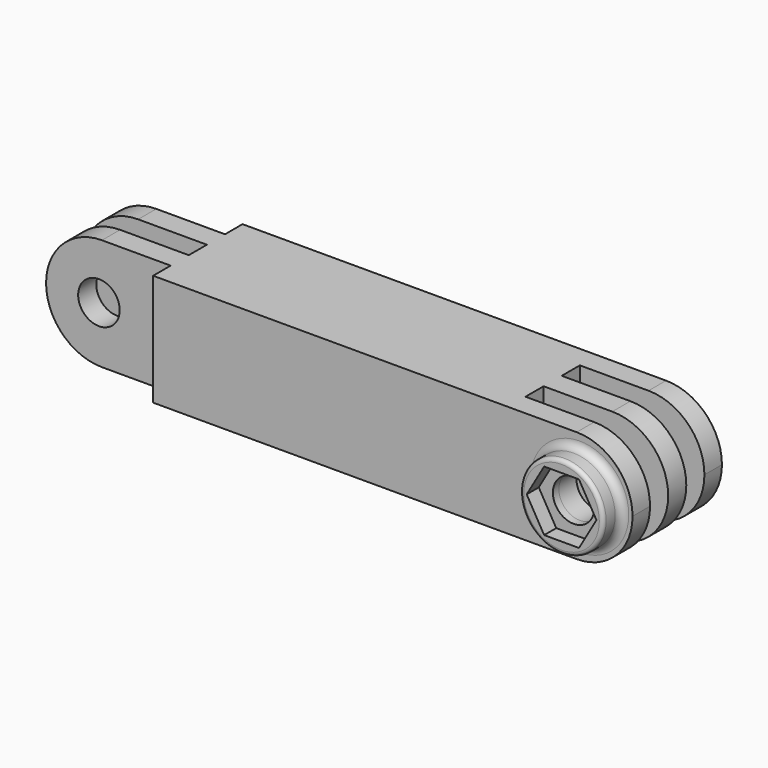
from build123d import *

# Parameters (mm, degrees)
F1_DEPTH      = 7.4
F1_DEPTH_BACK = 7.4
F3_W          = 18
F3_H          = 3
F4_DEPTH      = 25
F4_DEPTH_BACK = 25
F2_R          = 2.75
F5_DEPTH      = 25
F5_DEPTH_BACK = 25
F6_R          = 5.5
F7_DEPTH      = 3
F8_R          = 0.5
F9_R          = 1
F10_DEPTH     = 1


with BuildPart() as f1:
    # F0 (on Front) → F1 (new body, two sides)
    with BuildSketch(Plane.XZ) as f1_sk:
        with BuildLine():
            Line((-32.6, -7.4), (32.6, -7.4))
            ThreePointArc((32.6, -7.4), (37.8325901808, -5.2325901808), (40, 0))
            ThreePointArc((40, 0), (37.8325901808, 5.2325901808), (32.6, 7.4))
            Line((32.6, 7.4), (-32.6, 7.4))
            ThreePointArc((-32.6, 7.4), (-37.8325901808, 5.2325901808), (-40, 0))
            ThreePointArc((-40, 0), (-37.8325901808, -5.2325901808), (-32.6, -7.4))
        make_face()
    extrude(amount=F1_DEPTH)
    extrude(f1_sk.sketch, amount=-F1_DEPTH_BACK)

    # F3 (on Top) → F4 (cut, two sides)
    with BuildSketch(Plane.XY) as f4_sk:
        with Locations((-32.5, 6)):
            Rectangle(F3_W, F3_H)
        with Locations((-32.5, 0)):
            Rectangle(F3_W, F3_H)
        with Locations((-32.5, -6)):
            Rectangle(F3_W, F3_H)
        with Locations((32.5, 3)):
            Rectangle(F3_W, F3_H)
        with Locations((32.5, -3)):
            Rectangle(F3_W, F3_H)
    extrude(amount=F4_DEPTH, mode=Mode.SUBTRACT)
    extrude(f4_sk.sketch, amount=-F4_DEPTH_BACK, mode=Mode.SUBTRACT)

    # F2 (on Front) → F5 (cut, two sides)
    with BuildSketch(Plane.XZ) as f5_sk:
        with Locations((-33, 0)):
            Circle(F2_R)
        with Locations((33, 0)):
            Circle(F2_R)
    extrude(amount=-F5_DEPTH, mode=Mode.SUBTRACT)
    extrude(f5_sk.sketch, amount=F5_DEPTH_BACK, mode=Mode.SUBTRACT)

    # F6 (on face) → F7 (join)
    with BuildSketch(Plane.XZ.offset(7.4)):
        with Locations((33, 0)):
            Circle(F6_R)
        Polygon((37.6188021535, 0), (35.3094010768, -4), (30.6905989232, -4), (28.3811978465, 0), (30.6905989232, 4), (35.3094010768, 4), align=None, mode=Mode.SUBTRACT)
    extrude(amount=F7_DEPTH)

    # F8
    f8_edges = [f1.edges().sort_by_distance(p)[0] for p in [
        (27.5, -10.4, 0),
    ]]
    fillet(f8_edges, radius=F8_R)

    # F9
    f9_edges = [f1.edges().sort_by_distance(p)[0] for p in [
        (27.5, -7.4, 0),
    ]]
    fillet(f9_edges, radius=F9_R)

    # F10 (add): a face of the model
    f10_faces = [f1.faces().sort_by_distance(p)[0] for p in [
        (36.3582715627, -7.4, -1.9388989907),
    ]]
    extrude(f10_faces, amount=F10_DEPTH)


solid = f1.part
